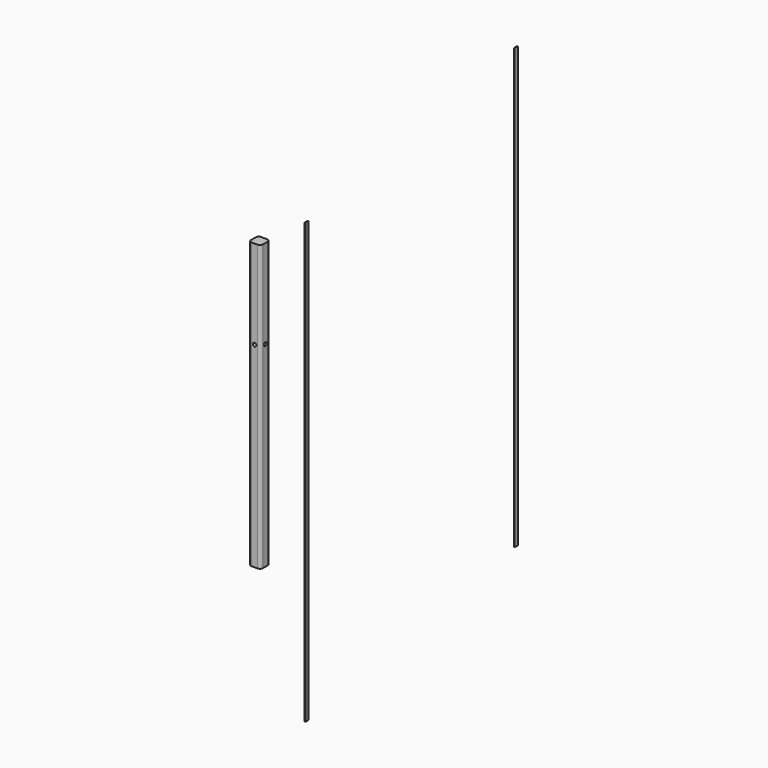
from build123d import *

# Parameters (mm, degrees)
F1_DEPTH  = 609.6
F2_W      = 8.466582
F2_H      = 939.8
F3_DEPTH  = 1.27
F4_W      = 8.46582
F4_H      = 939.8
F5_DEPTH  = 1.27
F7_R      = 3.81
F8_DEPTH  = 25.4
F10_DEPTH = 25.4


with BuildPart() as f1:
    # F0 (on Top) → F1 (new body)
    with BuildSketch(Plane.XY):
        with BuildLine():
            ThreePointArc((12.7, 6.35), (10.840128, 10.840128), (6.35, 12.7))
            Line((6.35, 12.7), (-6.35, 12.7))
            ThreePointArc((-6.35, 12.7), (-10.840128, 10.840128), (-12.7, 6.35))
            Line((-12.7, 6.35), (-12.7, -6.35))
            ThreePointArc((-12.7, -6.35), (-10.840128, -10.840128), (-6.35, -12.7))
            Line((-6.35, -12.7), (6.35, -12.7))
            ThreePointArc((6.35, -12.7), (10.840128, -10.840128), (12.7, -6.35))
            Line((12.7, -6.35), (12.7, 6.35))
        make_face()
    extrude(amount=F1_DEPTH)

    # F7 (on face) → F8 (cut)
    with BuildSketch(Plane(origin=(-12.7, 0, 0), x_dir=(0, -1, 0), z_dir=(-1, 0, 0))):
        with Locations((0, 419.1)):
            Circle(F7_R)
    extrude(amount=-F8_DEPTH, mode=Mode.SUBTRACT)

    # F9 (on face) → F10 (cut)
    with BuildSketch(Plane.XZ.offset(12.7)):
        with BuildLine():
            ThreePointArc((3.81, 419.1), (-2.694077, 421.794077), (0, 415.29))
            ThreePointArc((0, 415.29), (2.694077, 416.405923), (3.81, 419.1))
        make_face()
    extrude(amount=-F10_DEPTH, mode=Mode.SUBTRACT)


with BuildPart() as f3:
    # F2 (on Right) → F3 (new body)
    with BuildSketch(Plane.YZ):
        with Locations((-392.117033, 469.9)):
            Rectangle(F2_W, F2_H)
    extrude(amount=F3_DEPTH)


with BuildPart() as f5:
    # F4 (on Right) → F5 (new body)
    with BuildSketch(Plane.YZ):
        with Locations((167.538893, 571.176554)):
            Rectangle(F4_W, F4_H)
    extrude(amount=F5_DEPTH)


with BuildPart() as f5_1:
    # F6: moved
    add(f5.part.moved(Location((414.02, 0, 0))))


with BuildPart() as f3_1:
    # F6: moved
    add(f3.part.moved(Location((414.02, 0, 0))))


solid = Compound([f1.part, f5_1.part, f3_1.part])
